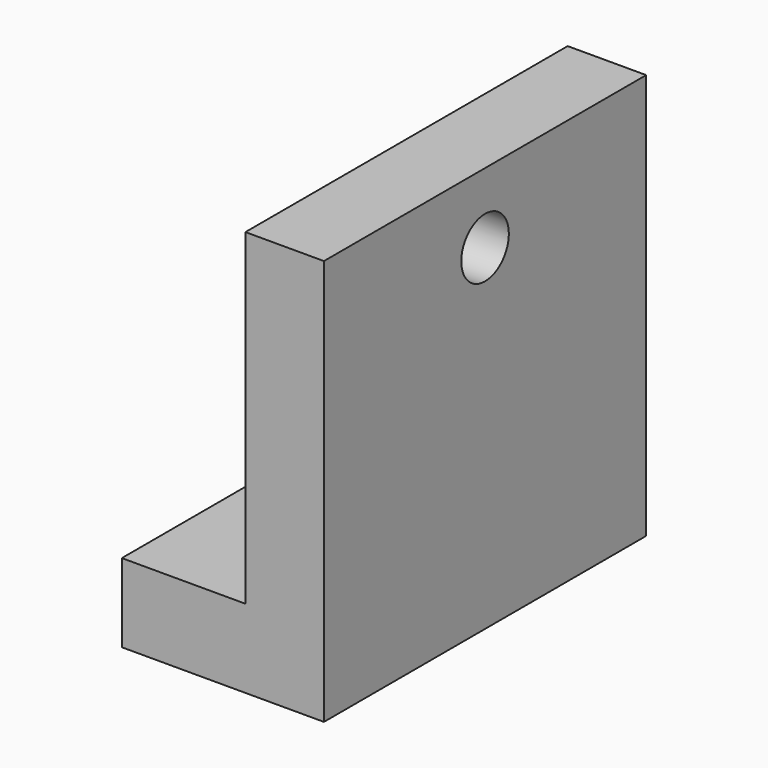
from build123d import *

# Parameters (mm, degrees)
F1_DEPTH = 76.2
F2_R     = 11.250821
F3_DEPTH = 76.469915
F5_DEPTH = 29.704893


with BuildPart() as f1:
    # F0 (on Front) → F1 (new body, symmetric)
    with BuildSketch(Plane.XZ):
        Polygon((-76.468915, 0), (0, 0), (0, 153.50008), (-29.703893, 153.50008), (-29.703893, 29.703893), (-76.468915, 29.703893), align=None)
    extrude(amount=F1_DEPTH, both=True)

    # F2 (on face) → F3 (cut, through all)
    with BuildSketch(Plane.YZ):
        with Locations((0, 127.023965)):
            Circle(F2_R)
    extrude(amount=-F3_DEPTH, mode=Mode.SUBTRACT)

    # F4 (on face) → F5 (cut, through all)
    with BuildSketch(Plane.XY.offset(29.703893)):
        with BuildLine():
            Line((-76.468915, -16.066248), (-63.770004, -16.066248))
            ThreePointArc((-63.770004, -16.066248), (-48.641407, -0.937651), (-63.770004, 14.190945))
            Line((-63.770004, 14.190945), (-76.468915, 14.190945))
            Line((-76.468915, 14.190945), (-76.468915, -16.066248))
        make_face()
    extrude(amount=-F5_DEPTH, mode=Mode.SUBTRACT)


solid = f1.part
